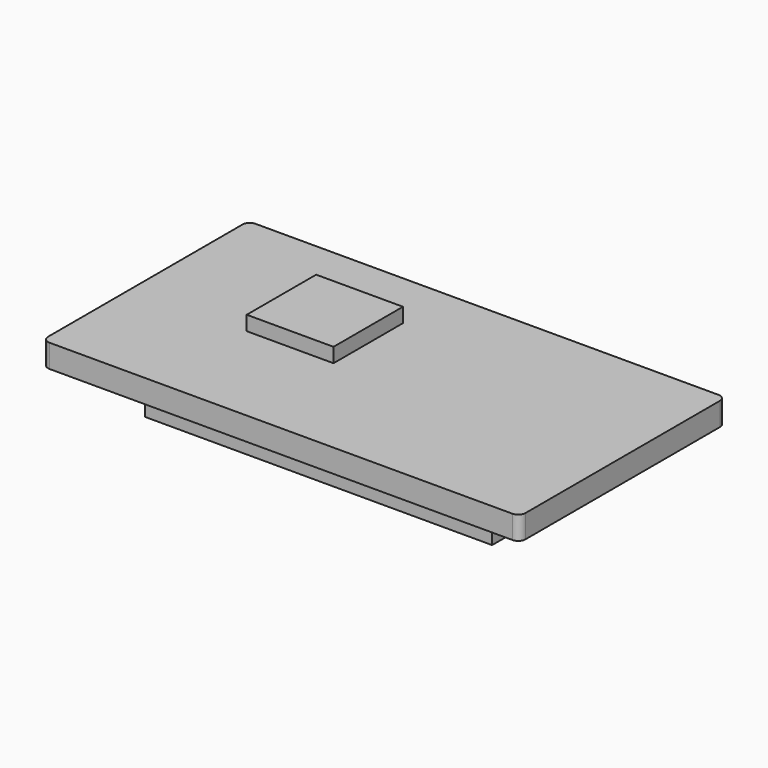
from build123d import *

# Parameters (mm, degrees)
F0_W     = 33
F0_H     = 17.8
F1_DEPTH = 1.6
F2_R     = 0.5
F3_W     = 6
F3_H     = 6
F4_DEPTH = 1
F5_W     = 24
F5_H     = 1.5
F6_DEPTH = 2


with BuildPart() as f1:
    # F0 (on Top) → F1 (new body)
    with BuildSketch(Plane.XY):
        with Locations((2.53072, -1.123066)):
            Rectangle(F0_W, F0_H)
    extrude(amount=F1_DEPTH)

    # F2
    f2_edges = [f1.edges().sort_by_distance(p)[0] for p in [
        (19.03072, -10.023066, 0.8),
        (-13.96928, -10.023066, 0.8),
        (19.03072, 7.776934, 0.8),
        (-13.96928, 7.776934, 0.8),
    ]]
    fillet(f2_edges, radius=F2_R)

    # F3 (on face) → F4 (join)
    with BuildSketch(Plane.XY.offset(1.6)):
        with Locations((-3, 0.677927)):
            Rectangle(F3_W, F3_H)
    extrude(amount=F4_DEPTH)

    # F5 (on face) → F6 (join)
    with BuildSketch(Plane(origin=(0, 0, 0), x_dir=(1, 0, 0), z_dir=(0, 0, -1))):
        with Locations((3.64614, 7.426964)):
            Rectangle(F5_W, F5_H)
        with Locations((3.64614, -5.180832)):
            Rectangle(F5_W, F5_H)
    extrude(amount=F6_DEPTH)


solid = f1.part
